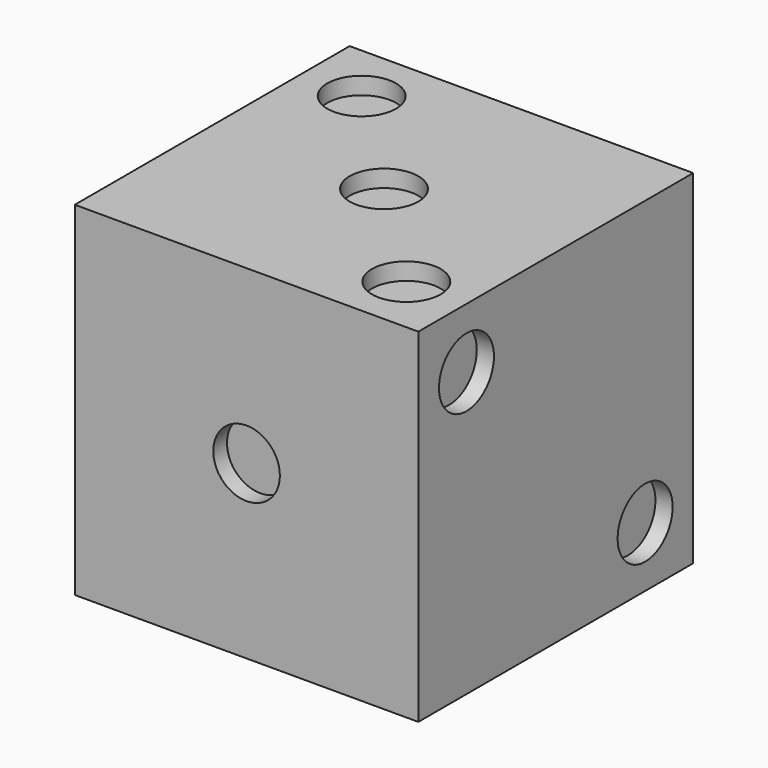
from build123d import *

# Parameters (mm, degrees)
F0_W      = 127
F0_H      = 127
F1_DEPTH  = 127
F2_R      = 12.31115
F3_DEPTH  = 6.35
F4_R      = 12.7
F5_DEPTH  = 6.35
F6_R      = 12.7
F7_DEPTH  = 6.35
F8_R      = 12.7
F9_DEPTH  = 6.35
F10_R     = 12.7
F11_DEPTH = 6.35
F12_R     = 12.7
F13_DEPTH = 6.35


with BuildPart() as f1:
    # F0 (on Front) → F1 (new body)
    with BuildSketch(Plane.XZ):
        with Locations((1.982547, 3.358671)):
            Rectangle(F0_W, F0_H)
    extrude(amount=F1_DEPTH)

    # F2 (on face) → F3 (cut)
    with BuildSketch(Plane.XZ.offset(127)):
        with Locations((1.982547, 3.358671)):
            Circle(F2_R)
    extrude(amount=-F3_DEPTH, mode=Mode.SUBTRACT)

    # F4 (on face) → F5 (cut)
    with BuildSketch(Plane(origin=(0, 0, 0), x_dir=(-1, 0, 0), z_dir=(0, 1, 0))):
        with Locations((39.291968, -37.916328)):
            Circle(F4_R)
        with Locations((39.34825, 3.358671)):
            Circle(F4_R)
        with Locations((39.292372, 44.633672)):
            Circle(F4_R)
        with Locations((-43.257628, 44.633672)):
            Circle(F4_R)
        with Locations((-43.257467, -37.916328)):
            Circle(F4_R)
        with Locations((-43.425423, 3.358671)):
            Circle(F4_R)
    extrude(amount=-F5_DEPTH, mode=Mode.SUBTRACT)

    # F6 (on face) → F7 (cut)
    with BuildSketch(Plane.YZ.offset(65.482547)):
        with Locations((-22.225, -37.916329)):
            Circle(F6_R)
        with Locations((-104.775, 44.633671)):
            Circle(F6_R)
    extrude(amount=-F7_DEPTH, mode=Mode.SUBTRACT)

    # F8 (on face) → F9 (cut)
    with BuildSketch(Plane(origin=(-61.517453, 0, 0), x_dir=(0, -1, 0), z_dir=(-1, 0, 0))):
        with Locations((22.225, 44.633671)):
            Circle(F8_R)
        with Locations((104.775, 44.633671)):
            Circle(F8_R)
        with Locations((104.775, -37.916329)):
            Circle(F8_R)
        with Locations((22.225, -37.916329)):
            Circle(F8_R)
        with Locations((63.5, 0)):
            Circle(F8_R)
    extrude(amount=-F9_DEPTH, mode=Mode.SUBTRACT)

    # F10 (on face) → F11 (cut)
    with BuildSketch(Plane(origin=(0, 0, -60.141329), x_dir=(1, 0, 0), z_dir=(0, 0, -1))):
        with Locations((-39.292453, 104.775)):
            Circle(F10_R)
        with Locations((43.257547, 104.775)):
            Circle(F10_R)
        with Locations((-39.292453, 22.225)):
            Circle(F10_R)
        with Locations((43.257547, 22.225)):
            Circle(F10_R)
    extrude(amount=-F11_DEPTH, mode=Mode.SUBTRACT)

    # F12 (on face) → F13 (cut)
    with BuildSketch(Plane.XY.offset(66.858671)):
        with Locations((-39.292453, -22.225)):
            Circle(F12_R)
        with Locations((43.257547, -104.775)):
            Circle(F12_R)
        with Locations((1.982547, -63.5)):
            Circle(F12_R)
    extrude(amount=-F13_DEPTH, mode=Mode.SUBTRACT)


solid = f1.part
